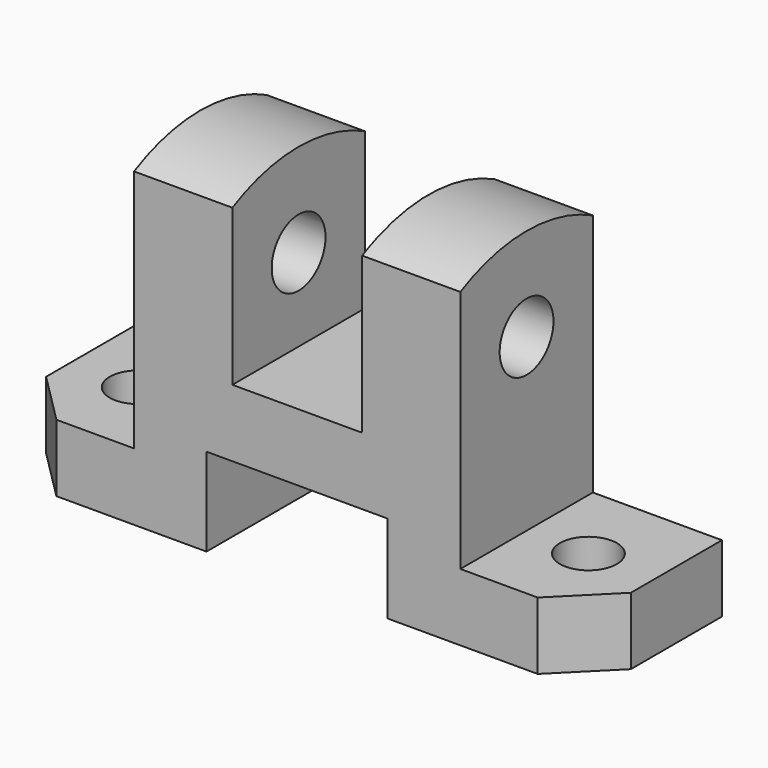
from build123d import *

# Parameters (mm, degrees)
F1_DEPTH      = 113
F2_R          = 6.5
F3_DEPTH      = 113.001
F4_W          = 35
F4_H          = 17
F5_DEPTH      = 32.001
F6_W          = 25
F6_H          = 51
F7_DEPTH      = 16.001
F7_DEPTH_BACK = 16.001
F8_R          = 5.5
F9_DEPTH      = 29.001


with BuildPart() as f1:
    # F0 (on Right) → F1 (new body)
    with BuildSketch(Plane.YZ):
        with BuildLine():
            ThreePointArc((16, 31.128765), (0, 35), (-16, 31.128765))
            Line((-16, 31.128765), (-16, -29))
            Line((-16, -29), (16, -29))
            Line((16, -29), (16, 31.128765))
        make_face()
    extrude(amount=F1_DEPTH)

    # F2 (on face) → F3 (cut, through all)
    with BuildSketch(Plane.YZ.offset(113)):
        with Locations((0, 17)):
            Circle(F2_R)
    extrude(amount=-F3_DEPTH, mode=Mode.SUBTRACT)

    # F4 (on face) → F5 (cut, through all)
    with BuildSketch(Plane.XZ.offset(16)):
        with Locations((56.5, -20.5)):
            Rectangle(F4_W, F4_H)
        Polygon((44, 1), (69, 1), (69.100894, 35.176743), (44, 35.176743), align=None)
    extrude(amount=-F5_DEPTH, mode=Mode.SUBTRACT)

    # F6 (on Front) → F7 (cut, two sides)
    with BuildSketch(Plane.XZ) as f7_sk:
        with Locations((12.5, 9.5)):
            Rectangle(F6_W, F6_H)
        with Locations((100.550447, 9.5)):
            Rectangle(F6_W, F6_H)
    extrude(amount=F7_DEPTH, mode=Mode.SUBTRACT)
    extrude(f7_sk.sketch, amount=-F7_DEPTH_BACK, mode=Mode.SUBTRACT)

    # F8 (on Top) → F9 (cut, through all)
    with BuildSketch(Plane.XY):
        Polygon((10, -16), (0, -6), (0, -16), align=None)
        with Locations((13, 0)):
            Circle(F8_R)
        with Locations((100, 0)):
            Circle(F8_R)
        Polygon((113, -6), (103, -16), (113, -16), align=None)
    extrude(amount=-F9_DEPTH, mode=Mode.SUBTRACT)


solid = f1.part
